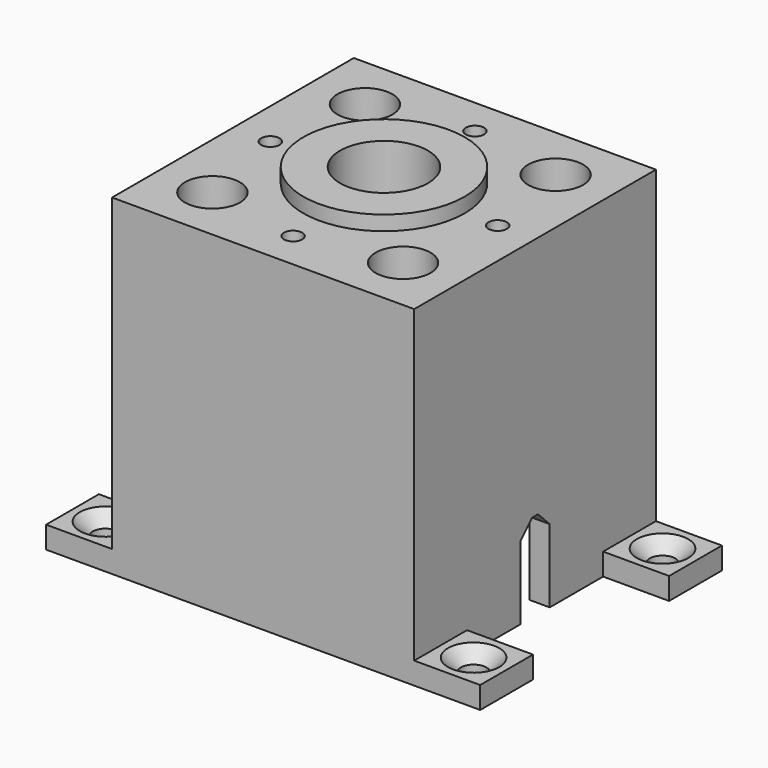
from build123d import *

# Parameters (mm, degrees)
SKETCH_W        = 41.2
SKETCH_H        = 41.2
PAD_DEPTH       = 45.2
SKETCH001_R     = 11
PAD001_DEPTH    = 47.2
SKETCH002_R     = 11.1
POCKET_DEPTH    = 38.7
SKETCH003_W     = 35.7
SKETCH003_H     = 35.7
POCKET001_DEPTH = 36.7
SKETCH004_R     = 1.5
SKETCH004_R_2   = 1.25
POCKET002_DEPTH = 45.201
SKETCH005_R     = 3.75
POCKET003_DEPTH = 4
SKETCH006_R     = 6
POCKET004_DEPTH = 47.201
SKETCH007_W     = 55
SKETCH007_H     = 5
POCKET005_DEPTH = 12
CHAMFER_SIZE    = 2
SKETCH008_W     = 9
SKETCH008_H     = 9
PAD002_DEPTH    = 3
SKETCH009_R     = 1.75
POCKET006_DEPTH = 47.201
CHAMFER001_SIZE = 1.75


with BuildPart() as part:
    # Sketch → Pad (new body)
    with BuildSketch(Plane.XY):
        Rectangle(SKETCH_W, SKETCH_H)
    extrude(amount=PAD_DEPTH)

    # Sketch001 → Pad001 (join)
    with BuildSketch(Plane.XY):
        Circle(SKETCH001_R)
    extrude(amount=PAD001_DEPTH)

    # Sketch002 → Pocket (cut)
    with BuildSketch(Plane.XY):
        Circle(SKETCH002_R)
    extrude(amount=POCKET_DEPTH, mode=Mode.SUBTRACT)

    # Sketch003 → Pocket001 (cut)
    with BuildSketch(Plane.XY):
        Rectangle(SKETCH003_W, SKETCH003_H)
    extrude(amount=POCKET001_DEPTH, mode=Mode.SUBTRACT)

    # Sketch004 (on DatumPlane) → Pocket002 (cut, through all)
    with BuildSketch(Plane.XY.offset(45.2)):
        with Locations((13, 13)):
            Circle(SKETCH004_R)
        with Locations((15.5, 0)):
            Circle(SKETCH004_R_2)
        with Locations((-13, 13)):
            Circle(SKETCH004_R)
        with Locations((0, 15.5)):
            Circle(SKETCH004_R_2)
        with Locations((-15.5, 0)):
            Circle(SKETCH004_R_2)
        with Locations((0, -15.5)):
            Circle(SKETCH004_R_2)
        with Locations((13, -13)):
            Circle(SKETCH004_R)
        with Locations((-13, -13)):
            Circle(SKETCH004_R)
    extrude(amount=-POCKET002_DEPTH, mode=Mode.SUBTRACT)

    # Sketch005 (on DatumPlane) → Pocket003 (cut)
    with BuildSketch(Plane.XY.offset(45.2)):
        with Locations((-13, 13)):
            Circle(SKETCH005_R)
        with Locations((13, 13)):
            Circle(SKETCH005_R)
        with Locations((13, -13)):
            Circle(SKETCH005_R)
        with Locations((-13, -13)):
            Circle(SKETCH005_R)
    extrude(amount=-POCKET003_DEPTH, mode=Mode.SUBTRACT)

    # Sketch006 → Pocket004 (cut, through all)
    with BuildSketch(Plane.XY):
        Circle(SKETCH006_R)
    extrude(amount=POCKET004_DEPTH, mode=Mode.SUBTRACT)

    # Sketch007 → Pocket005 (cut)
    with BuildSketch(Plane.XY):
        Rectangle(SKETCH007_W, SKETCH007_H)
    extrude(amount=POCKET005_DEPTH, mode=Mode.SUBTRACT)

    # Chamfer
    chamfer_edges = [part.edges().sort_by_distance(p)[0] for p in [
        (19.225, 2.5, 12),
        (19.225, -2.5, 12),
        (-19.225, -2.5, 12),
        (-19.225, 2.5, 12),
    ]]
    chamfer(chamfer_edges, length=CHAMFER_SIZE)

    # Sketch008 → Pad002 (join)
    with BuildSketch(Plane.XY):
        with Locations((-25.1, 16.1)):
            Rectangle(SKETCH008_W, SKETCH008_H)
        with Locations((25.1, 16.1)):
            Rectangle(SKETCH008_W, SKETCH008_H)
        with Locations((25.1, -16.1)):
            Rectangle(SKETCH008_W, SKETCH008_H)
        with Locations((-25.1, -16.1)):
            Rectangle(SKETCH008_W, SKETCH008_H)
    extrude(amount=PAD002_DEPTH)

    # Sketch009 → Pocket006 (cut, through all)
    with BuildSketch(Plane.XY):
        with Locations((-25.1, 16.1)):
            Circle(SKETCH009_R)
        with Locations((-25.1, -16.1)):
            Circle(SKETCH009_R)
        with Locations((25.1, -16.1)):
            Circle(SKETCH009_R)
        with Locations((25.1, 16.1)):
            Circle(SKETCH009_R)
    extrude(amount=POCKET006_DEPTH, mode=Mode.SUBTRACT)

    # Chamfer001
    chamfer001_edges = [part.edges().sort_by_distance(p)[0] for p in [
        (-26.85, 16.1, 3),
        (-26.85, -16.1, 3),
        (23.35, 16.1, 3),
        (23.35, -16.1, 3),
    ]]
    chamfer(chamfer001_edges, length=CHAMFER001_SIZE)


solid = part.part
